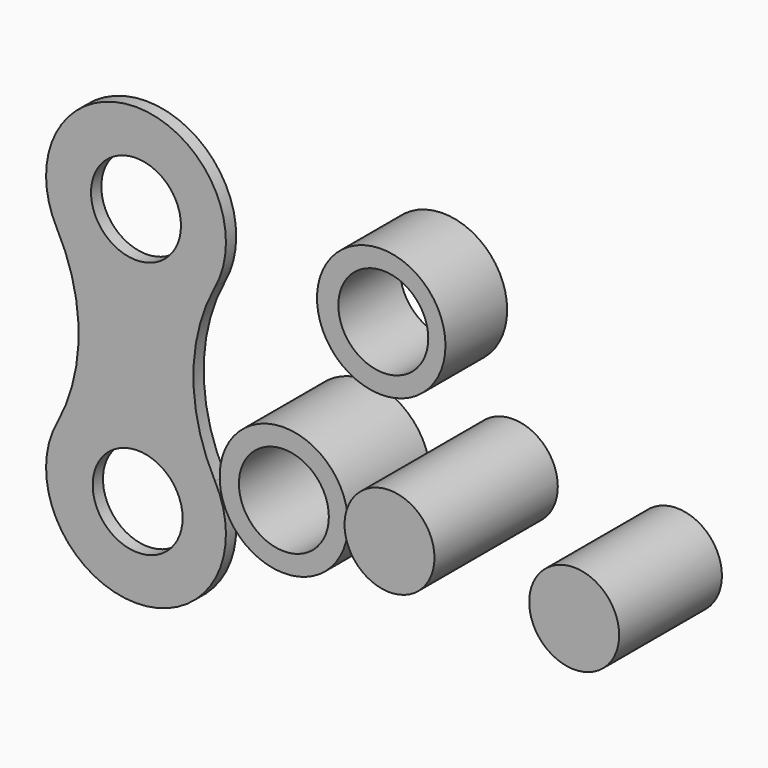
from build123d import *

# Parameters (mm, degrees)
F0_R     = 88.9
F1_DEPTH = 25.4
F2_R     = 88.9
F3_DEPTH = 254
F4_R     = 88.9
F5_DEPTH = 304.8
F6_R     = 127
F6_R_2   = 88.9
F7_DEPTH = 152.4
F8_R     = 127
F8_R_2   = 88.9
F9_DEPTH = 203.2


with BuildPart() as f1:
    # F0 (on Front) → F1 (new body)
    with BuildSketch(Plane.XZ):
        with BuildLine():
            ThreePointArc((136.380191, -320.256206), (93.474262, -150.922873), (136.380191, 18.410461))
            ThreePointArc((136.380191, 18.410461), (-19.966844, 280.877127), (-176.31388, 18.410461))
            ThreePointArc((-176.31388, 18.410461), (-133.407951, -150.922873), (-176.31388, -320.256206))
            ThreePointArc((-176.31388, -320.256206), (-19.966844, -582.722873), (136.380191, -320.256206))
        make_face()
        with Locations((-16.750693, -404.922873)):
            Circle(F0_R, mode=Mode.SUBTRACT)
        with Locations((-19.966844, 103.077127)):
            Circle(F0_R, mode=Mode.SUBTRACT)
    extrude(amount=F1_DEPTH)


with BuildPart() as f3:
    # F2 (on Front) → F3 (new body)
    with BuildSketch(Plane.XZ):
        with Locations((1029.171348, -175.426185)):
            Circle(F2_R)
    extrude(amount=F3_DEPTH)


with BuildPart() as f5:
    # F4 (on Front) → F5 (new body)
    with BuildSketch(Plane.XZ):
        with Locations((704.726934, -125.778481)):
            Circle(F4_R)
    extrude(amount=F5_DEPTH)


with BuildPart() as f7:
    # F6 (on Front) → F7 (new body)
    with BuildSketch(Plane.XZ):
        with Locations((566.460431, 149.239615)):
            Circle(F6_R)
        with Locations((570.522005, 150.433258)):
            Circle(F6_R_2, mode=Mode.SUBTRACT)
    extrude(amount=F7_DEPTH)


with BuildPart() as f9:
    # F8 (on Front) → F9 (new body)
    with BuildSketch(Plane.XZ):
        with Locations((414.603651, -190.161139)):
            Circle(F8_R)
        with Locations((414.603651, -190.161139)):
            Circle(F8_R_2, mode=Mode.SUBTRACT)
    extrude(amount=F9_DEPTH)


solid = Compound([f1.part, f3.part, f5.part, f7.part, f9.part])
